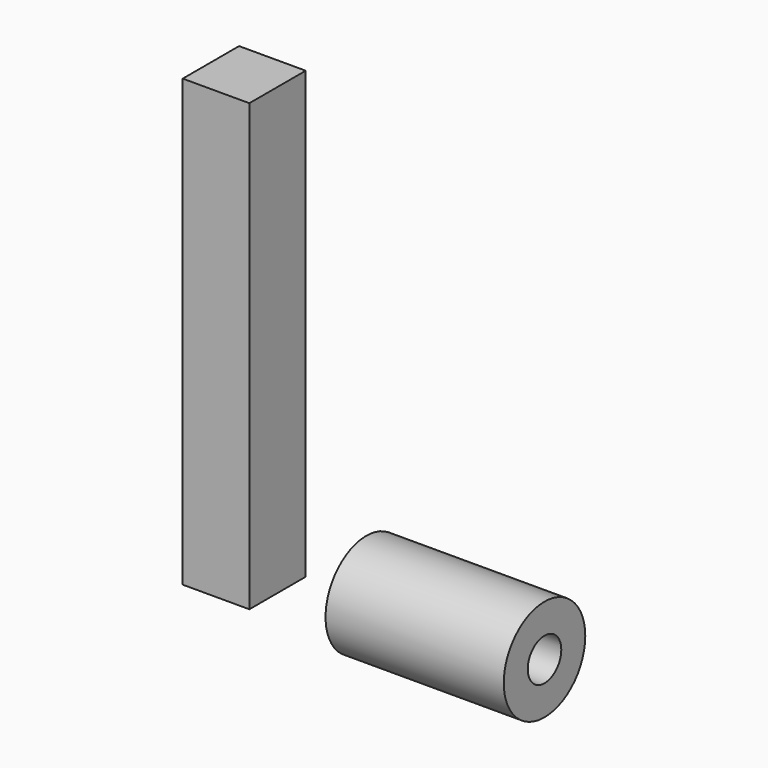
from build123d import *

# Parameters (mm, degrees)
F1_R     = 28.587714
F1_R_2   = 11.768885
F2_DEPTH = 100
F0_W     = 37.383769
F0_H     = 39.515132
F3_DEPTH = 250


with BuildPart() as f2:
    # F1 (on Right) → F2 (new body)
    with BuildSketch(Plane.YZ):
        with Locations((13.720259, -11.382747)):
            Circle(F1_R)
        with Locations((13.720259, -11.382747)):
            Circle(F1_R_2, mode=Mode.SUBTRACT)
    extrude(amount=F2_DEPTH)


with BuildPart() as f3:
    # F0 (on Top) → F3 (new body)
    with BuildSketch(Plane.XY):
        with Locations((-35.744512, -27.226753)):
            Rectangle(F0_W, F0_H)
    extrude(amount=F3_DEPTH)


solid = Compound([f2.part, f3.part])
